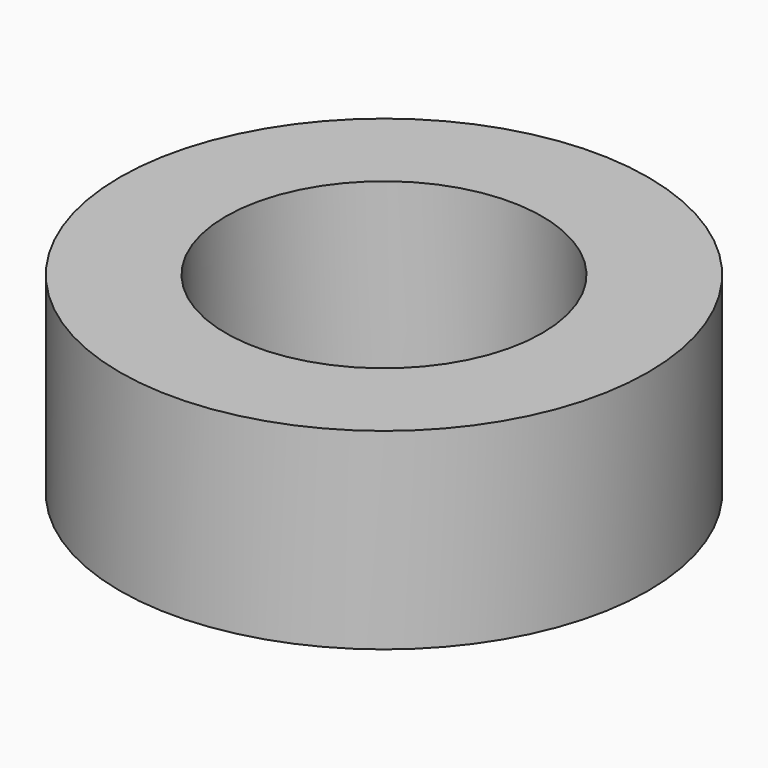
from build123d import *

# Parameters (mm, degrees)
F0_W = 6.7133326083
F0_H = 4.1312873363


with BuildPart() as f1:
    # F0 (on Front) → F1 (revolve)
    with BuildSketch(Plane.XZ):
        with Locations((3.3566663042, 2.0656436682)):
            Rectangle(F0_W, F0_H)
        with BuildLine():
            Line((0, 7.8494437039), (0, 4.1312873363))
            Line((0, 4.1312873363), (6.7133326083, 4.1312873363))
            Line((6.7133326083, 4.1312873363), (6.7133326083, 0))
            Line((6.7133326083, 0), (13.4266652167, 0))
            Line((13.4266652167, 0), (13.4266652167, 24.3745818734))
            Line((13.4266652167, 24.3745818734), (0, 24.3745818734))
            Line((0, 24.3745818734), (0, 21.8958109617))
            ThreePointArc((0, 21.8958109617), (7.0231836289, 14.8726273328), (0, 7.8494437039))
        make_face()
        with BuildLine():
            Line((0, 21.8958109617), (0, 7.8494437039))
            ThreePointArc((0, 7.8494437039), (7.0231836289, 14.8726273328), (0, 21.8958109617))
        make_face()
    revolve(axis=Axis((33.4708504379, 0, 12.1872909367), (0, 0, 1)))


solid = f1.part
